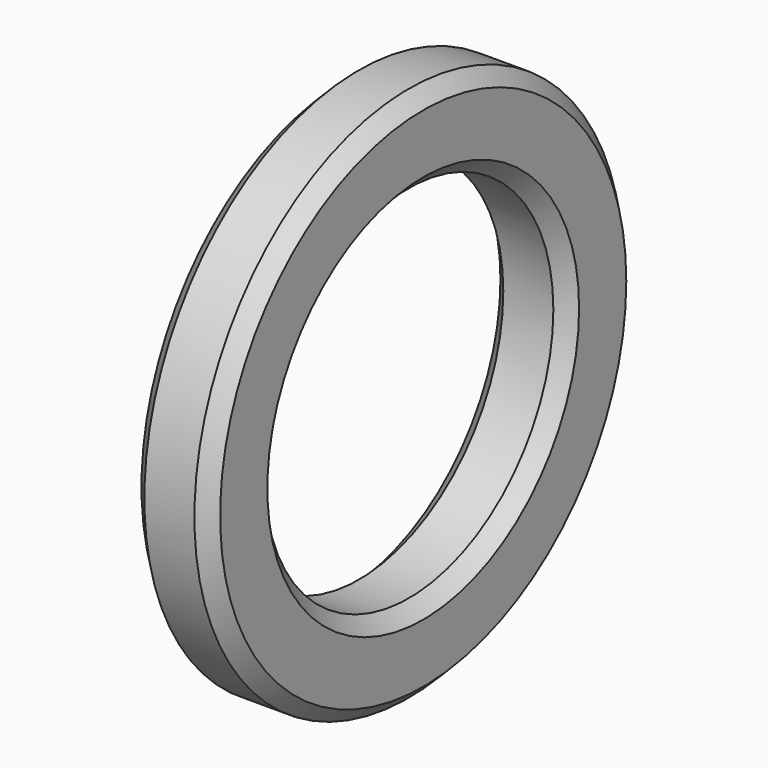
from build123d import *

# Parameters (mm, degrees)
F0_R     = 9.525
F0_R_2   = 6.4135
F1_DEPTH = 2.794
F2_SIZE  = 0.508


with BuildPart() as f1:
    # F0 (on Right) → F1 (new body)
    with BuildSketch(Plane.YZ):
        Circle(F0_R)
        Circle(F0_R_2, mode=Mode.SUBTRACT)
    extrude(amount=F1_DEPTH)

    # F2
    f2_edges = [f1.edges().sort_by_distance(p)[0] for p in [
        (1.397, 6.4135, 0),
        (0, -6.4135, 0),
        (2.794, -6.4135, 0),
        (1.397, 9.525, 0),
        (0, -9.525, 0),
        (2.794, -9.525, 0),
    ]]
    chamfer(f2_edges, length=F2_SIZE)


solid = f1.part
